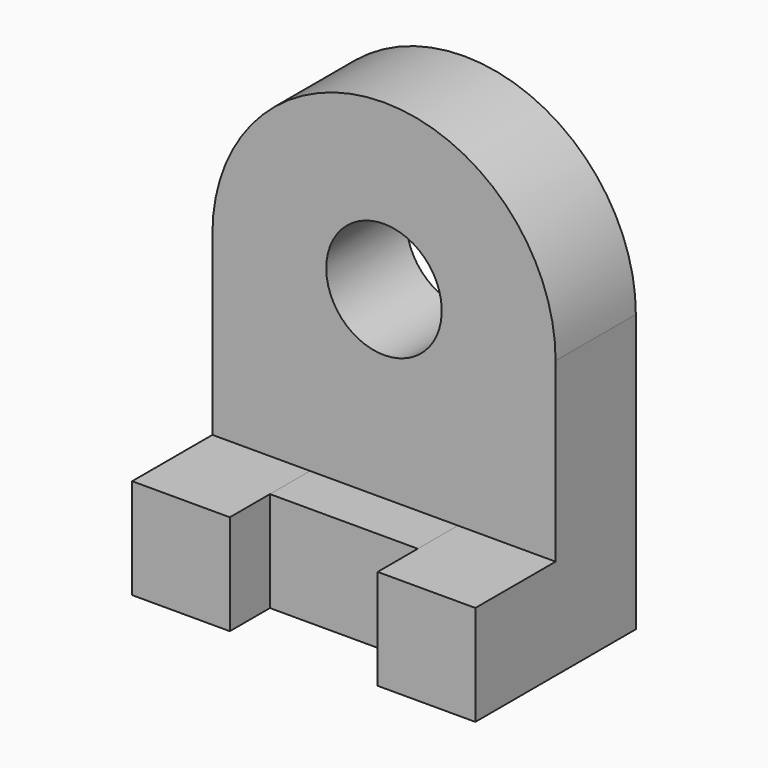
from build123d import *

# Parameters (mm, degrees)
F0_W     = 66.04
F0_H     = 53.34
F1_DEPTH = 19.304
F2_W     = 18.796
F2_H     = 19.304
F3_DEPTH = 19.304
F2_W_2   = 28.448
F4_DEPTH = 9.652
F6_D     = 22.225


with BuildPart() as f1:
    # F0 (on Front) → F1 (new body)
    with BuildSketch(Plane.XZ):
        with Locations((33.02, 26.67)):
            Rectangle(F0_W, F0_H)
        with BuildLine():
            ThreePointArc((66.04, 53.34), (33.02, 86.36), (0, 53.34))
            Line((0, 53.34), (66.04, 53.34))
        make_face()
    extrude(amount=F1_DEPTH)

    # F2 (on face) → F3 (join)
    with BuildSketch(Plane.XZ.offset(19.304)):
        with Locations((9.398, 9.652)):
            Rectangle(F2_W, F2_H)
        with Locations((56.642, 9.652)):
            Rectangle(F2_W, F2_H)
    extrude(amount=F3_DEPTH)

    # F6 (through all)
    with Locations(Plane.XZ.offset(19.304)):
        with Locations((33.02, 54.672021)):
            Hole(F6_D / 2)


with BuildPart() as f4:
    # F2 (on face) → F4 (new body)
    with BuildSketch(Plane.XZ.offset(19.304)):
        with Locations((33.02, 9.652)):
            Rectangle(F2_W_2, F2_H)
    extrude(amount=F4_DEPTH)


solid = Compound([f1.part, f4.part])
